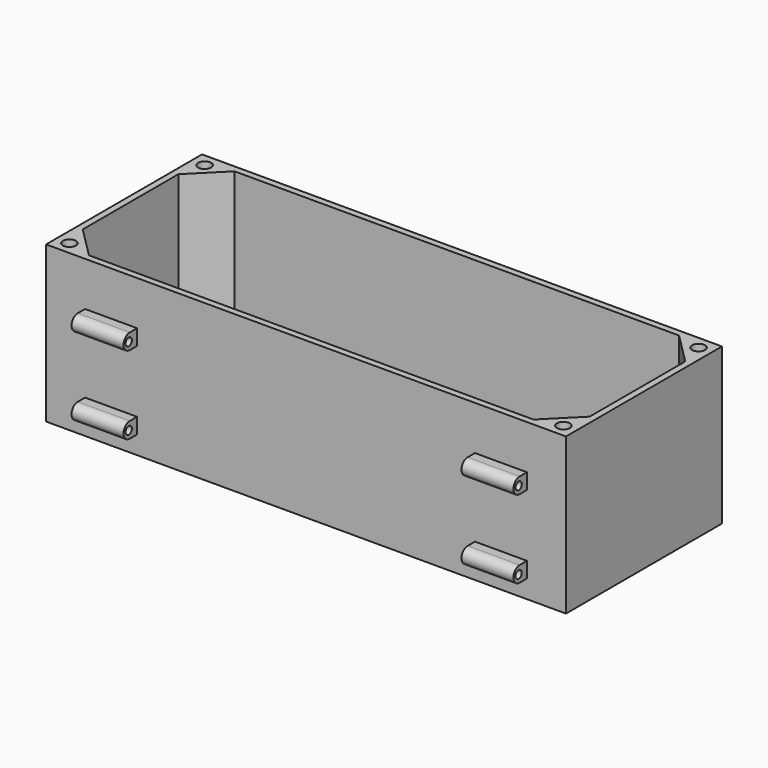
from build123d import *

# Parameters (mm, degrees)
SKETCH_W                      = 200
SKETCH_H                      = 75
PAD_DEPTH                     = 60
POCKET_DEPTH                  = 58
SKETCH002_R                   = 2.5
POCKET001_DEPTH               = 15
SKETCH002_MIRRORED_2_R        = 2.5
POCKET001_MIRRORED_2_DEPTH    = 15
PAD001_DEPTH                  = 10
PAD001_MIRRORED002_2_DEPTH    = 10
SKETCH004_R                   = 1.5
POCKET002_DEPTH               = 10
SKETCH004_MIRRORED004_2_R     = 1.5
POCKET002_MIRRORED004_2_DEPTH = 10


with BuildPart() as part:
    # Sketch (on DatumPlane) → Pad (new body)
    with BuildSketch(Plane.XY):
        Rectangle(SKETCH_W, SKETCH_H)
    extrude(amount=PAD_DEPTH)

    # Sketch001 (on DatumPlane) → Pocket (cut)
    with BuildSketch(Plane.XY.offset(60)):
        Polygon((-97.5, -23), (-97.5, 23), (-85.5, 35), (85.5, 35), (97.5, 23), (97.5, -23), (85.5, -35), (-85.5, -35), align=None)
    extrude(amount=-POCKET_DEPTH, mode=Mode.SUBTRACT)

    # Sketch002 (on DatumPlane) → Pocket001 (cut)
    with BuildSketch(Plane.XY.offset(60)):
        with Locations((-95, 32.5)):
            Circle(SKETCH002_R)
    pocket001 = extrude(amount=-POCKET001_DEPTH, mode=Mode.SUBTRACT)

    # Sketch002 Mirrored 2 → Pocket001 Mirrored 2 (cut)
    with BuildSketch(Plane(origin=(0, 0, 60), x_dir=(-1, 0, 0), z_dir=(0, 0, -1))):
        with Locations((-95, 32.5)):
            Circle(SKETCH002_MIRRORED_2_R)
    pocket001_mirrored_2 = extrude(amount=POCKET001_MIRRORED_2_DEPTH, mode=Mode.SUBTRACT)

    # Mirrored001: Pocket001, Pocket001 Mirrored 2 across XZ
    add(pocket001.mirror(Plane.XZ), mode=Mode.SUBTRACT)
    add(pocket001_mirrored_2.mirror(Plane.XZ), mode=Mode.SUBTRACT)

    # Sketch003 (on DatumPlane) → Pad001 (join, symmetric)
    with BuildSketch(Plane.YZ.offset(-75)):
        with BuildLine():
            Line((41, 43), (37.5, 43))
            Line((37.5, 43), (37.5, 37))
            Line((37.5, 37), (41, 37))
            ThreePointArc((41, 37), (44, 40), (41, 43))
        make_face()
        with BuildLine():
            Line((41, 7), (37.5, 7))
            Line((37.5, 7), (37.5, 13))
            Line((37.5, 13), (41, 13))
            ThreePointArc((41, 7), (44, 10), (41, 13))
        make_face()
    pad001 = extrude(amount=PAD001_DEPTH, both=True)

    # Sketch003 Mirrored002 2 → Pad001 Mirrored002 2 (add, symmetric)
    with BuildSketch(Plane.YZ.offset(75)):
        with BuildLine():
            Line((41, 43), (37.5, 43))
            Line((37.5, 43), (37.5, 37))
            Line((37.5, 37), (41, 37))
            ThreePointArc((41, 37), (44, 40), (41, 43))
        make_face()
        with BuildLine():
            Line((41, 7), (37.5, 7))
            Line((37.5, 7), (37.5, 13))
            Line((37.5, 13), (41, 13))
            ThreePointArc((41, 7), (44, 10), (41, 13))
        make_face()
    pad001_mirrored002_2 = extrude(amount=-PAD001_MIRRORED002_2_DEPTH, both=True)

    # Mirrored003: Pad001, Pad001 Mirrored002 2 across XZ
    add(pad001.mirror(Plane.XZ))
    add(pad001_mirrored002_2.mirror(Plane.XZ))

    # Sketch004 (on DatumPlane) → Pocket002 (cut, symmetric)
    with BuildSketch(Plane.YZ.offset(-75)):
        with Locations((41.5, 40)):
            Circle(SKETCH004_R)
        with Locations((41.5, 10)):
            Circle(SKETCH004_R)
    pocket002 = extrude(amount=POCKET002_DEPTH, both=True, mode=Mode.SUBTRACT)

    # Sketch004 Mirrored004 2 → Pocket002 Mirrored004 2 (cut, symmetric)
    with BuildSketch(Plane.YZ.offset(75)):
        with Locations((41.5, 40)):
            Circle(SKETCH004_MIRRORED004_2_R)
        with Locations((41.5, 10)):
            Circle(SKETCH004_MIRRORED004_2_R)
    pocket002_mirrored004_2 = extrude(amount=-POCKET002_MIRRORED004_2_DEPTH, both=True, mode=Mode.SUBTRACT)

    # Mirrored005: Pocket002, Pocket002 Mirrored004 2 across XZ
    add(pocket002.mirror(Plane.XZ), mode=Mode.SUBTRACT)
    add(pocket002_mirrored004_2.mirror(Plane.XZ), mode=Mode.SUBTRACT)


solid = part.part
